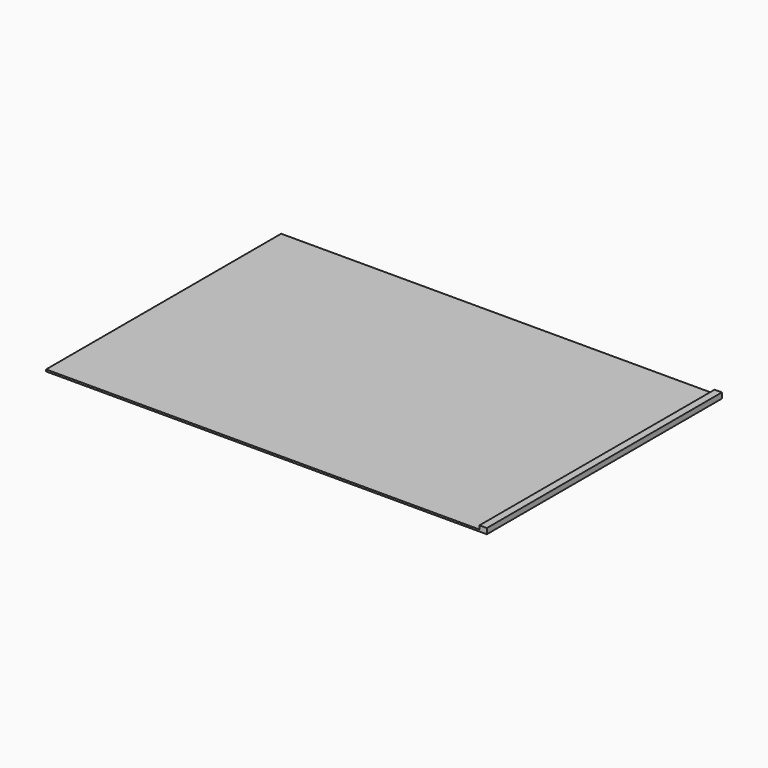
from build123d import *

# Parameters (mm, degrees)
F0_W     = 1200
F0_H     = 800
F1_DEPTH = 2.5
F2_W     = 20
F2_H     = 800
F3_DEPTH = 10


with BuildPart() as f1:
    # F0 (on Top) → F1 (new body, symmetric)
    with BuildSketch(Plane.XY):
        with Locations((-20.164287, 112.183267)):
            Rectangle(F0_W, F0_H)
    extrude(amount=F1_DEPTH, both=True)

    # F2 (on face) → F3 (join)
    with BuildSketch(Plane.XY.offset(2.5)):
        with Locations((569.835713, 112.183267)):
            Rectangle(F2_W, F2_H)
    extrude(amount=F3_DEPTH)


solid = f1.part
